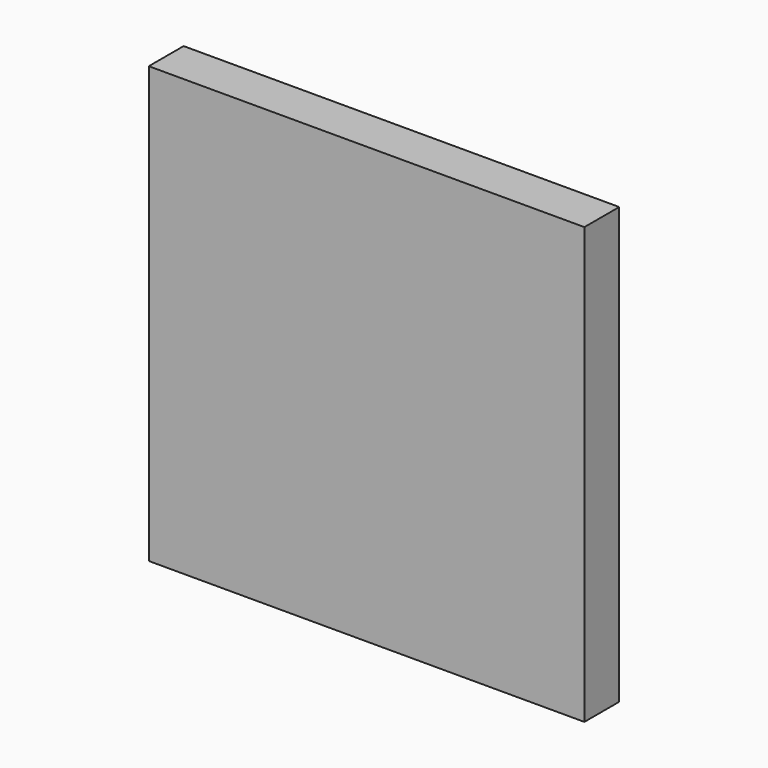
from build123d import *

# Parameters (mm, degrees)
F0_W     = 1000.00054
F0_H     = 1000
F1_DEPTH = 500.00027
F3_W     = 1000.00054
F3_H     = 1000
F4_DEPTH = 1000.00054


with BuildPart() as f1:
    # F0 (on Front) → F1 (new body, symmetric)
    with BuildSketch(Plane.XZ):
        Rectangle(F0_W, F0_H)
    extrude(amount=F1_DEPTH, both=True)

    # F3 (on offset) → F4 (cut)
    with BuildSketch(Plane.XZ.offset(400.000216)):
        Rectangle(F3_W, F3_H)
    extrude(amount=-F4_DEPTH, mode=Mode.SUBTRACT)


solid = f1.part
